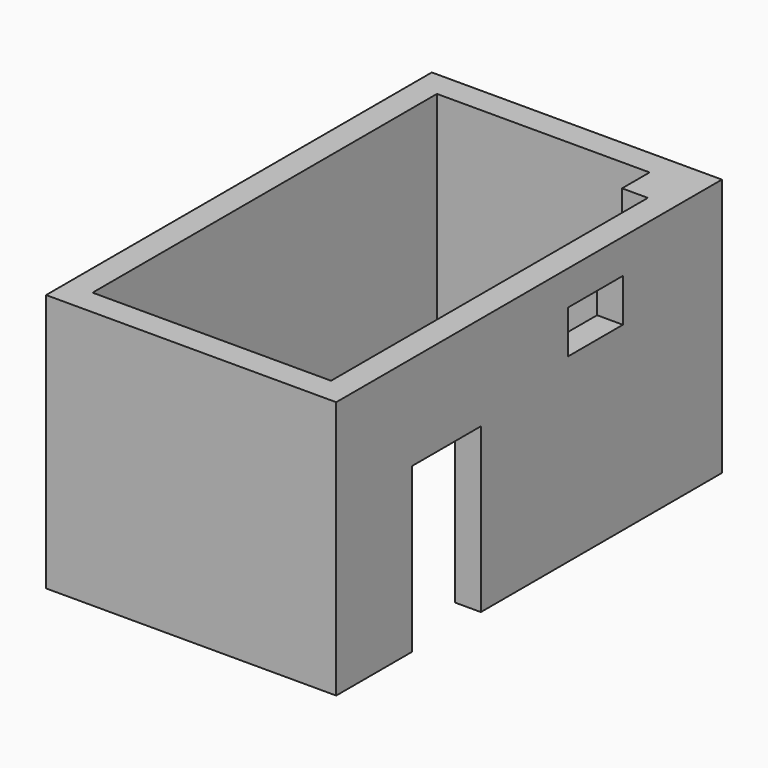
from build123d import *

# Parameters (mm, degrees)
F0_W     = 3370
F0_H     = 5600
F0_W_2   = 300
F0_H_2   = 400
F1_DEPTH = 3000
F2_W     = 1000
F2_H     = 1900
F2_W_2   = 800
F2_H_2   = 500
F3_DEPTH = 300


with BuildPart() as f1:
    # F0 (on Top) → F1 (new body)
    with BuildSketch(Plane.XY):
        with Locations((1385, 2500)):
            Rectangle(F0_W, F0_H)
        Polygon((2770, 0), (0, 0), (0, 5000), (2470, 5000), (2770, 5000), (2770, 4600), align=None, mode=Mode.SUBTRACT)
        with Locations((2620, 4800)):
            Rectangle(F0_W_2, F0_H_2)
    extrude(amount=F1_DEPTH)

    # F2 (on face) → F3 (cut, through all)
    with BuildSketch(Plane.YZ.offset(3070)):
        with Locations((1300, 950)):
            Rectangle(F2_W, F2_H)
        with Locations((3462.532663, 2350)):
            Rectangle(F2_W_2, F2_H_2)
    extrude(amount=-F3_DEPTH, mode=Mode.SUBTRACT)


solid = f1.part
